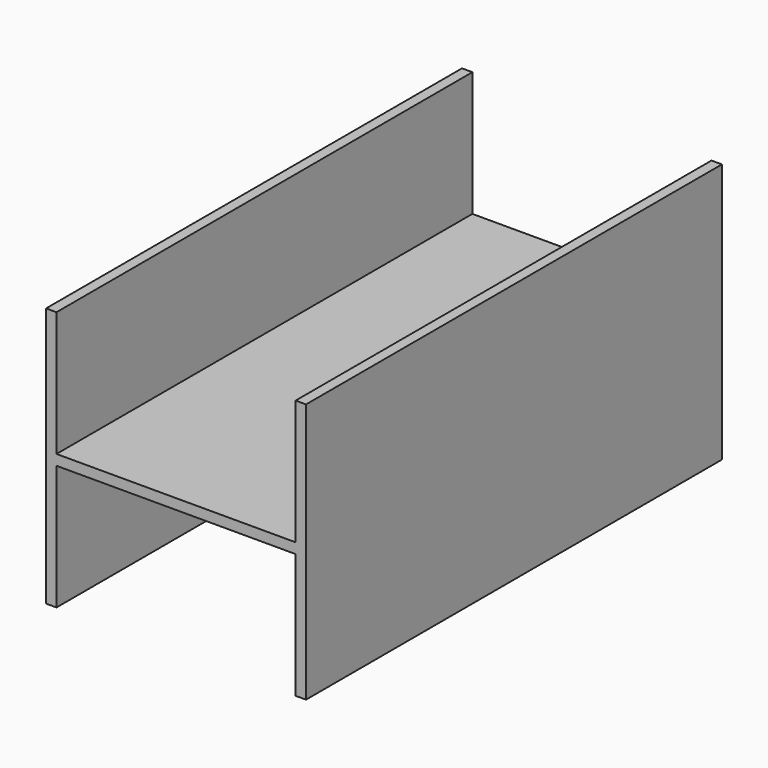
from build123d import *

# Parameters (mm, degrees)
F0_W     = 184
F0_H     = 8
F1_DEPTH = 400


with BuildPart() as f1:
    # F0 (on Front) → F1 (new body)
    with BuildSketch(Plane.XZ):
        Polygon((0, 200), (0, 0), (8, 0), (8, 96), (8, 104), (8, 200), align=None)
        with Locations((100, 100)):
            Rectangle(F0_W, F0_H)
        Polygon((192, 104), (192, 96), (192, 0), (200, 0), (200, 200), (192, 200), align=None)
    extrude(amount=-F1_DEPTH)


solid = f1.part
